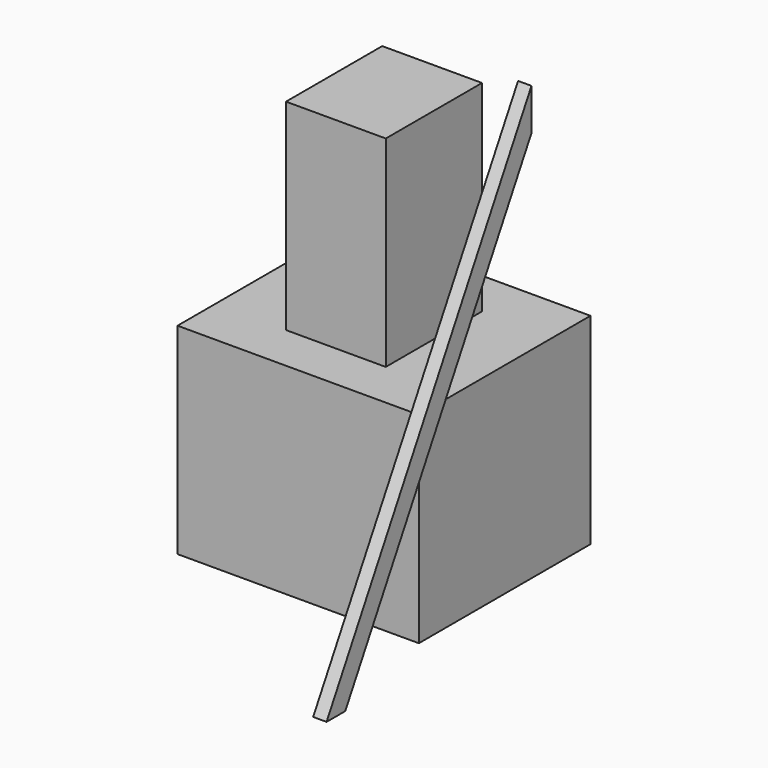
from build123d import *

# Parameters (mm, degrees)
F0_W     = 900
F0_H     = 800
F1_DEPTH = 750
F2_W     = 372.144908
F2_H     = 448.613166
F3_DEPTH = 750
F6_DEPTH = 50


with BuildPart() as f1:
    # F0 (on Top) → F1 (new body)
    with BuildSketch(Plane.XY):
        Rectangle(F0_W, F0_H)
    extrude(amount=F1_DEPTH)

    # F2 (on face) → F3 (join)
    with BuildSketch(Plane.XY.offset(750)):
        Rectangle(F2_W, F2_H)
    extrude(amount=F3_DEPTH)


with BuildPart() as f6:
    # F5 (on offset) → F6 (new body)
    with BuildSketch(Plane.YZ.offset(500)):
        Polygon((0, 1700), (-955.248659, 0), (-868.072188, 0), (0, 1544.857149), align=None)
    extrude(amount=F6_DEPTH)


solid = Compound([f1.part, f6.part])
